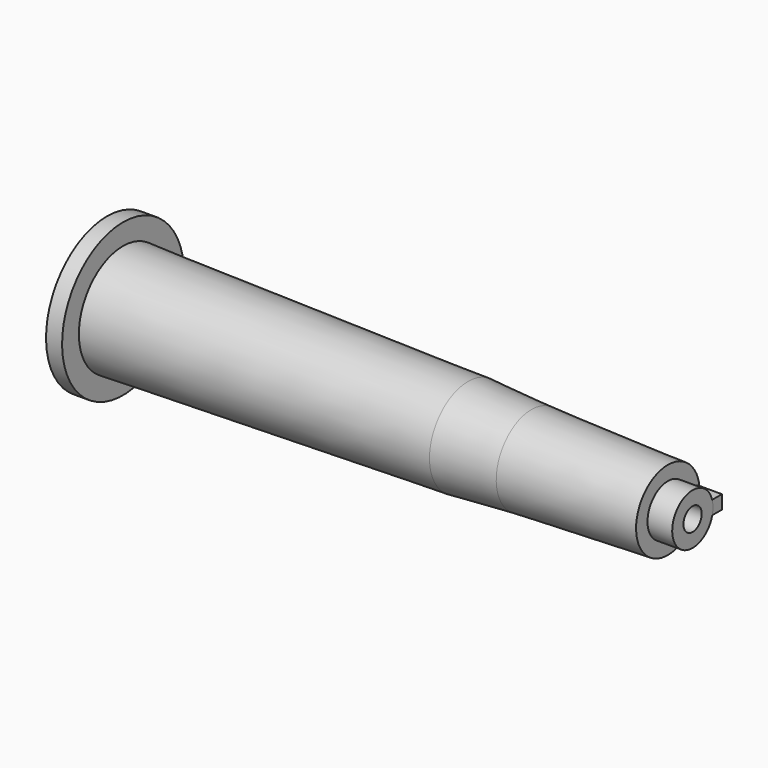
from build123d import *

# Parameters (mm, degrees)
F3_DEPTH = 3.05
F4_R     = 1.425
F5_DEPTH = 20


with BuildPart() as f1:
    # F0 (on Front) → F1 (revolve)
    with BuildSketch(Plane.XZ):
        Polygon((0, 9.5), (0, 0), (73, 0), (73, 3.175), (69.92, 3.175), (69.92, 4.955), (52.92, 5.5), (45, 6), (2, 6.885), (2, 9.5), align=None)
    revolve(axis=Axis((36.5, 0, 0), (1, 0, 0)))

    # F2 (on face) → F3 (join)
    with BuildSketch(Plane.YZ.offset(69.92)):
        with BuildLine():
            Line((4.61, -0.85), (4.61, 0.85))
            Line((4.61, 0.85), (3.059105, 0.85))
            ThreePointArc((3.059105, 0.85), (3.145893, 0.428932), (3.175, 0))
            ThreePointArc((3.175, 0), (3.145893, -0.428932), (3.059105, -0.85))
            Line((3.059105, -0.85), (4.61, -0.85))
        make_face()
        with BuildLine():
            ThreePointArc((3.175, 0), (3.145893, 0.428932), (3.059105, 0.85))
            ThreePointArc((3.059105, 0.85), (-3.175, 0), (3.059105, -0.85))
            ThreePointArc((3.059105, -0.85), (3.145893, -0.428932), (3.175, 0))
        make_face()
    extrude(amount=F3_DEPTH)

    # F4 (on face) → F5 (cut)
    with BuildSketch(Plane.YZ.offset(73)):
        Circle(F4_R)
    extrude(amount=-F5_DEPTH, mode=Mode.SUBTRACT)


solid = f1.part
